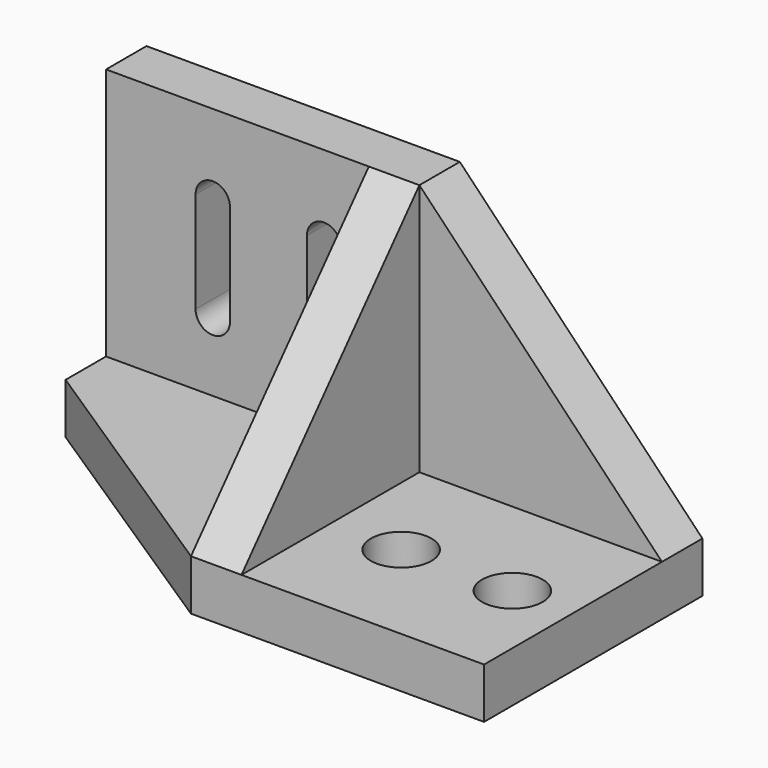
from build123d import *

# Parameters (mm, degrees)
F0_W      = 58
F0_H      = 54
F1_DEPTH  = 10
F3_DEPTH  = 10
F5_DEPTH  = 50
F4_R      = 6
F4_W      = 10
F4_H      = 44
F7_DEPTH  = 50
F9_DEPTH  = 62.001
F10_DEPTH = 60.001
F11_DEPTH = 10.001


with BuildPart() as f1:
    # F0 (on Top) → F1 (new body)
    with BuildSketch(Plane.XY):
        Rectangle(F0_W, F0_H)
        Polygon((-29, -27), (-29, 27), (-81, 27), (-81, 7), align=None)
    extrude(amount=F1_DEPTH)

    # F2 (on face) → F3 (join)
    with BuildSketch(Plane(origin=(0, 27, 0), x_dir=(-1, 0, 0), z_dir=(0, 1, 0))):
        Polygon((19, 60), (-29, 10), (19, 10), align=None)
    extrude(amount=-F3_DEPTH)

    # F4 (on face) → F5 (join)
    with BuildSketch(Plane.XY.offset(10)):
        Polygon((-81, 27), (-81, 17), (-29, 17), (-19, 17), (-19, 27), align=None)
    extrude(amount=F5_DEPTH)

    # F4 (on face) → F7 (join)
    with BuildSketch(Plane.XY.offset(10)):
        with Locations((17, -5)):
            Circle(F4_R)
        with Locations((-5, -5)):
            Circle(F4_R)
        with Locations((-24, -5)):
            Rectangle(F4_W, F4_H)
    extrude(amount=F7_DEPTH)

    # F8 (on face) → F9 (cut, through all)
    with BuildSketch(Plane.YZ.offset(-19)):
        Polygon((-27, 60), (-27, 10), (17, 60), align=None)
    extrude(amount=-F9_DEPTH, mode=Mode.SUBTRACT)

    # F10 (cut, through all): faces of the model
    f10_faces = [f1.faces().sort_by_distance(p)[0] for p in [
        (-5, -5, 60),
        (17, -5, 60),
    ]]
    extrude(f10_faces, amount=-F10_DEPTH, mode=Mode.SUBTRACT)

    # F6 (on face) → F11 (cut, through all)
    with BuildSketch(Plane.XZ.offset(-17)):
        with BuildLine():
            ThreePointArc((-56.470110421, 44), (-59.8754155453, 47.4053051244), (-63.2807206697, 44))
            Line((-63.2807206697, 44), (-63.2807206697, 24))
            ThreePointArc((-63.2807206697, 24), (-59.8754155453, 20.5946948756), (-56.470110421, 24))
            Line((-56.470110421, 24), (-56.470110421, 44))
        make_face()
        with BuildLine():
            ThreePointArc((-34.5057800598, 44), (-37.8754155453, 47.3696354855), (-41.2450510308, 44))
            Line((-41.2450510308, 44), (-41.2450510308, 24))
            ThreePointArc((-41.2450510308, 24), (-37.8754155453, 20.6303645145), (-34.5057800598, 24))
            Line((-34.5057800598, 24), (-34.5057800598, 44))
        make_face()
    extrude(amount=-F11_DEPTH, mode=Mode.SUBTRACT)


solid = f1.part
